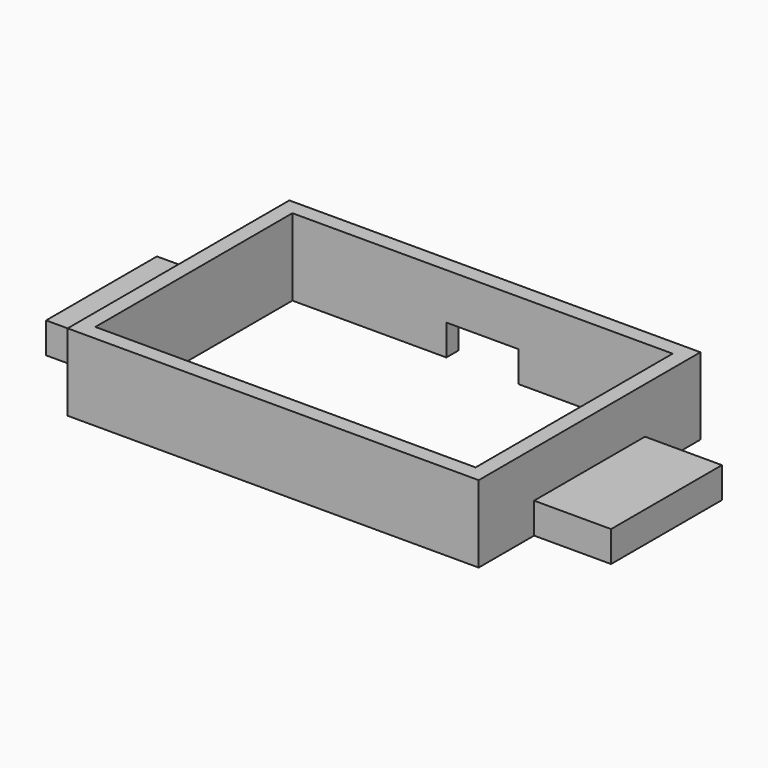
from build123d import *

# Parameters (mm, degrees)
F0_W     = 3
F0_H     = 5
F0_W_2   = 1
F0_H_2   = 1
F1_DEPTH = 2
F0_W_3   = 4.7
F2_DEPTH = 5
F3_DEPTH = 2


with BuildPart() as f1:
    # F0 (on Top) → F1 (new body)
    with BuildSketch(Plane.XY):
        with Locations((26.2, 7)):
            Rectangle(F0_W, F0_H)
        Polygon((-2, 10.5), (-1, 10.5), (-1, 15), (9, 15), (9, 16), (-2, 16), (-2, 11.5), align=None)
        with Locations((-3.5, 7)):
            Rectangle(F0_W, F0_H)
        Polygon((-2, 3.5), (-2, 4.5), (-5, 4.5), (-5, 9.5), (-2, 9.5), (-2, 10.5), (-6, 10.5), (-6, 3.5), align=None)
        Polygon((27.7, 4.5), (24.7, 4.5), (24.7, 3.5), (28.7, 3.5), (28.7, 10.5), (24.7, 10.5), (24.7, 9.5), (27.7, 9.5), align=None)
        Polygon((-2, 2.5), (-2, 3.5), (-6, 3.5), (-6, 10.5), (-2, 10.5), (-2, 11.5), (-7, 11.5), (-7, 2.5), align=None)
        Polygon((-1, -1), (-1, 3.5), (-2, 3.5), (-2, 2.5), (-2, -2), (24.7, -2), (24.7, 2.5), (24.7, 3.5), (23.7, 3.5), (23.7, -1), align=None)
        with Locations((-1.5, 7)):
            Rectangle(F0_W_2, F0_H)
        with Locations((-1.5, 4)):
            Rectangle(F0_W_2, F0_H_2)
        with Locations((24.2, 4)):
            Rectangle(F0_W_2, F0_H_2)
        with Locations((24.2, 7)):
            Rectangle(F0_W_2, F0_H)
        with Locations((24.2, 10)):
            Rectangle(F0_W_2, F0_H_2)
        Polygon((23.7, 15), (23.7, 10.5), (24.7, 10.5), (24.7, 11.5), (24.7, 16), (13.7, 16), (13.7, 15), align=None)
        Polygon((28.7, 3.5), (24.7, 3.5), (24.7, 2.5), (29.7, 2.5), (29.7, 11.5), (24.7, 11.5), (24.7, 10.5), (28.7, 10.5), align=None)
        with Locations((-1.5, 10)):
            Rectangle(F0_W_2, F0_H_2)
    extrude(amount=F1_DEPTH)

    # F0 (on Top) → F2 (join)
    with BuildSketch(Plane.XY):
        Polygon((-2, 10.5), (-1, 10.5), (-1, 15), (9, 15), (9, 16), (-2, 16), (-2, 11.5), align=None)
        with Locations((11.35, 15.5)):
            Rectangle(F0_W_3, F0_H_2)
        Polygon((23.7, 15), (23.7, 10.5), (24.7, 10.5), (24.7, 11.5), (24.7, 16), (13.7, 16), (13.7, 15), align=None)
        with Locations((24.2, 10)):
            Rectangle(F0_W_2, F0_H_2)
        with Locations((24.2, 7)):
            Rectangle(F0_W_2, F0_H)
        Polygon((-1, -1), (-1, 3.5), (-2, 3.5), (-2, 2.5), (-2, -2), (24.7, -2), (24.7, 2.5), (24.7, 3.5), (23.7, 3.5), (23.7, -1), align=None)
        with Locations((24.2, 4)):
            Rectangle(F0_W_2, F0_H_2)
        with Locations((-1.5, 4)):
            Rectangle(F0_W_2, F0_H_2)
        with Locations((-1.5, 7)):
            Rectangle(F0_W_2, F0_H)
        with Locations((-1.5, 10)):
            Rectangle(F0_W_2, F0_H_2)
    extrude(amount=F2_DEPTH)

    # F0 (on Top) → F3 (cut)
    with BuildSketch(Plane.XY):
        with Locations((11.35, 15.5)):
            Rectangle(F0_W_3, F0_H_2)
    extrude(amount=F3_DEPTH, mode=Mode.SUBTRACT)


solid = f1.part
